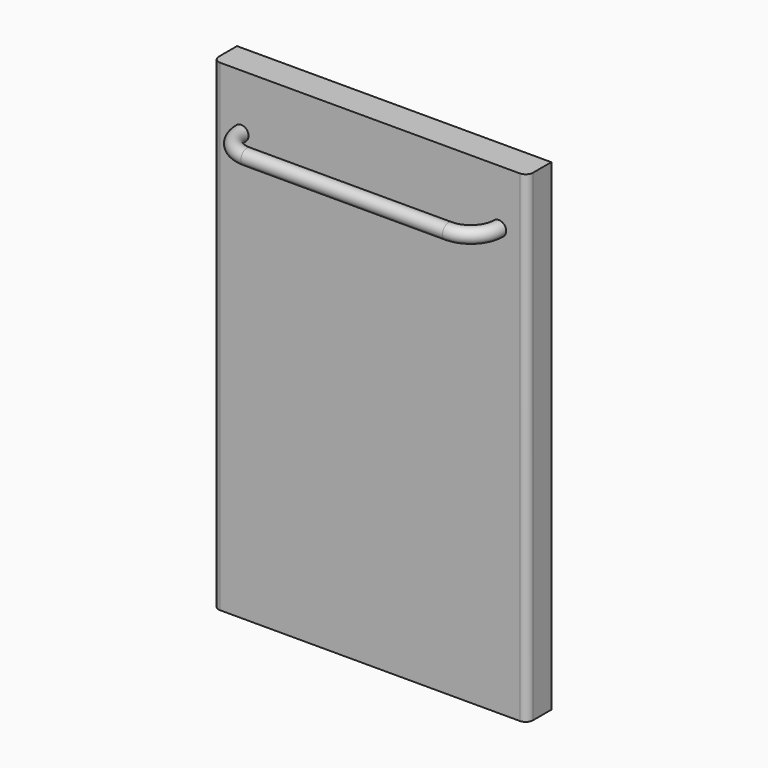
from build123d import *

# Parameters (mm, degrees)
F0_W     = 427
F0_H     = 655
F1_DEPTH = 41
F2_R     = 10
F3_W     = 407
F3_H     = 635
F4_DEPTH = 10
F7_R     = 10


with BuildPart() as f1:
    # F0 (on Front) → F1 (new body)
    with BuildSketch(Plane.XZ):
        Rectangle(F0_W, F0_H)
    extrude(amount=F1_DEPTH)

    # F2
    f2_edges = [f1.edges().sort_by_distance(p)[0] for p in [
        (-213.5, -41, 0),
        (213.5, -41, 0),
    ]]
    fillet(f2_edges, radius=F2_R)

    # F8: sweep along a path in F6
    with BuildLine(Plane.XY.offset(252.5)) as f8_path:
        ThreePointArc((-175, -41), (-163.8700576851, -67.8700576851), (-137, -79))
        Line((-137, -79), (137, -79))
        ThreePointArc((137, -79), (163.8700576851, -67.8700576851), (175, -41))
    # F7 (on face) → F8 (sweep)
    with BuildSketch(Plane.XZ.offset(41)):
        with Locations((-175, 252.5)):
            Circle(F7_R)
    sweep(path=f8_path.line)


with BuildPart() as f4:
    # F3 (on face) → F4 (new body)
    with BuildSketch(Plane(origin=(0, 0, 0), x_dir=(-1, 0, 0), z_dir=(0, 1, 0))):
        Rectangle(F3_W, F3_H)
    extrude(amount=F4_DEPTH)


solid = Compound([f1.part, f4.part])
